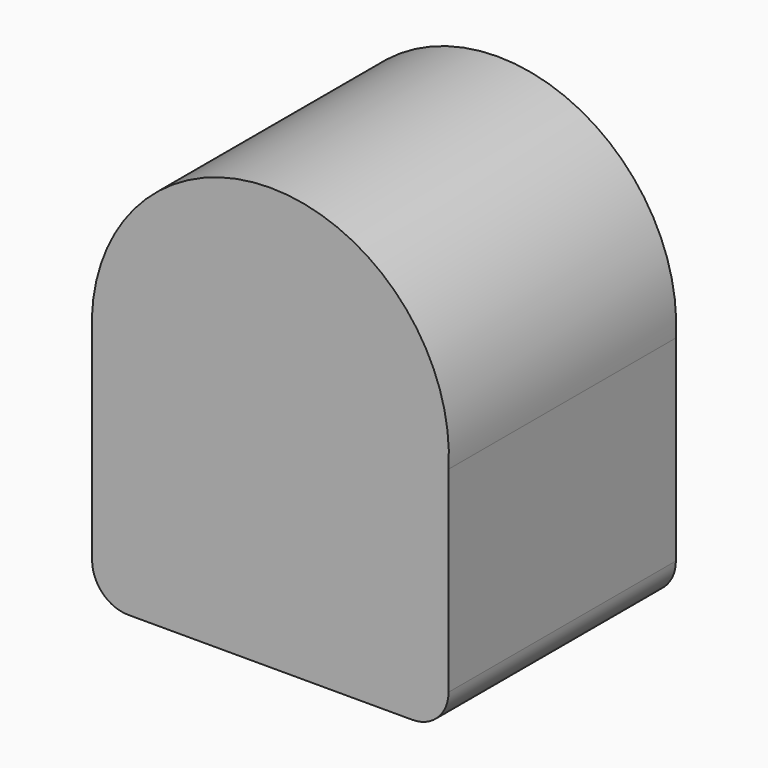
from build123d import *

# Parameters (mm, degrees)
F1_DEPTH = 50


with BuildPart() as f1:
    # F0 (on Front) → F1 (new body)
    with BuildSketch(Plane.XZ):
        with BuildLine():
            ThreePointArc((34.500629, 20.936279), (3.145357, 54.347331), (-28.209915, 20.936279))
            Line((-28.209915, 20.936279), (34.500629, 20.936279))
        make_face()
        with BuildLine():
            Line((34.500629, 20.936279), (-28.209915, 20.936279))
            Line((-28.209915, 20.936279), (-28.209915, -13.603353))
            ThreePointArc((-28.209915, -13.603353), (-26.350043, -18.093481), (-21.859915, -19.953353))
            Line((-21.859915, -19.953353), (28.150629, -19.953353))
            ThreePointArc((28.150629, -19.953353), (32.640757, -18.093481), (34.500629, -13.603353))
            Line((34.500629, -13.603353), (34.500629, 20.936279))
        make_face()
    extrude(amount=F1_DEPTH)


solid = f1.part
